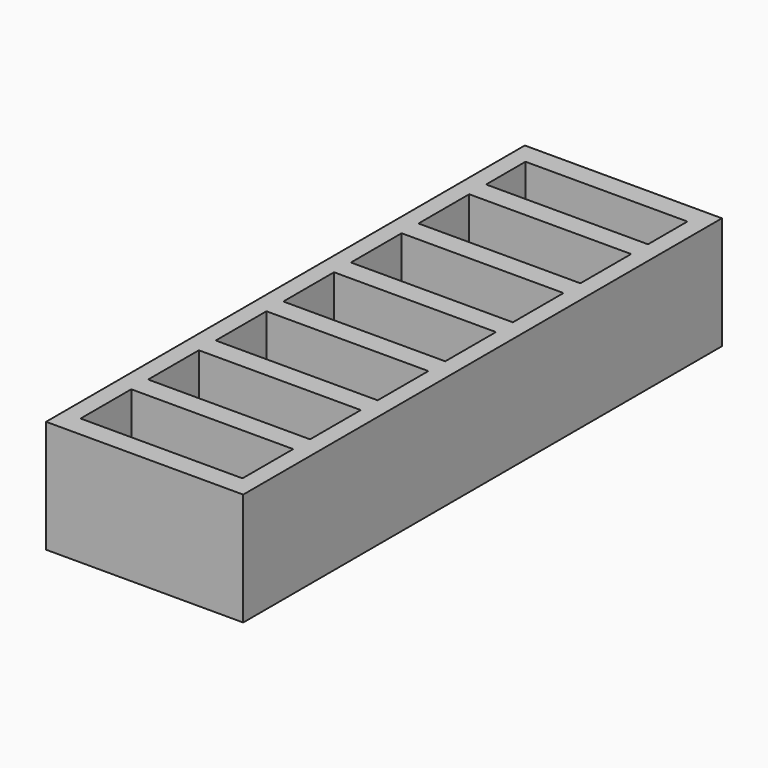
from build123d import *

# Parameters (mm, degrees)
F0_W     = 28
F0_H     = 16
F1_DEPTH = 85
F2_W     = 23
F2_H     = 9
F2_H_2   = 7
F3_DEPTH = 25


with BuildPart() as f1:
    # F0 (on Front) → F1 (new body)
    with BuildSketch(Plane.XZ):
        Rectangle(F0_W, F0_H)
    extrude(amount=F1_DEPTH)

    # F2 (on face) → F3 (cut)
    with BuildSketch(Plane(origin=(0, 0, -8), x_dir=(1, 0, 0), z_dir=(0, 0, -1))):
        with Locations((0, 77.5)):
            Rectangle(F2_W, F2_H)
        with Locations((0, 65.5)):
            Rectangle(F2_W, F2_H)
        with Locations((0, 53.5)):
            Rectangle(F2_W, F2_H)
        with Locations((0, 41.5)):
            Rectangle(F2_W, F2_H)
        with Locations((0, 29.5)):
            Rectangle(F2_W, F2_H)
        with Locations((0, 17.5)):
            Rectangle(F2_W, F2_H)
        with Locations((0, 6.5)):
            Rectangle(F2_W, F2_H_2)
    extrude(amount=-F3_DEPTH, mode=Mode.SUBTRACT)


solid = f1.part
